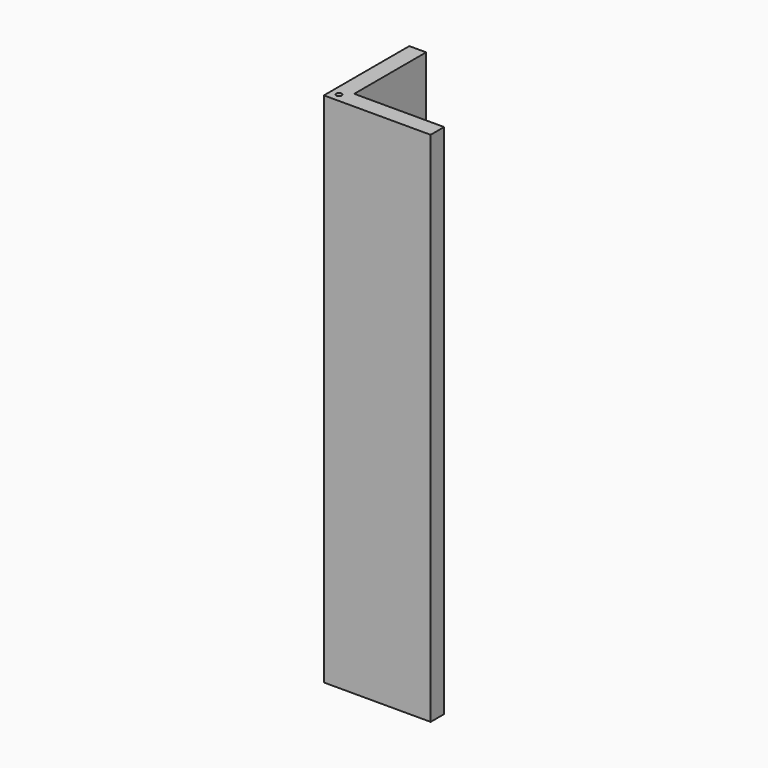
from build123d import *

# Parameters (mm, degrees)
F1_DEPTH = 292.1
F3_DEPTH = 611.632


with BuildPart() as f1:
    # F0 (on Top) → F1 (new body, symmetric)
    with BuildSketch(Plane.XY):
        Polygon((-60.325, 60.325), (-60.325, -60.325), (60.325, -60.325), (60.325, -41.275), (-41.275, -41.275), (-41.275, 60.325), align=None)
    extrude(amount=F1_DEPTH, both=True)

    # F2 (on face) → F3 (cut)
    with BuildSketch(Plane.XY.offset(292.1)):
        with BuildLine():
            ThreePointArc((-47.767103, -50.8), (-47.997968, -49.63936), (-48.655418, -48.655418))
            Line((-48.655418, -48.655418), (-52.944582, -52.944582))
            ThreePointArc((-52.944582, -52.944582), (-49.63936, -53.602032), (-47.767103, -50.8))
        make_face()
        with BuildLine():
            Line((-52.944582, -52.944582), (-48.655418, -48.655418))
            ThreePointArc((-48.655418, -48.655418), (-52.944582, -48.655418), (-52.944582, -52.944582))
        make_face()
    extrude(amount=-F3_DEPTH, mode=Mode.SUBTRACT)


solid = f1.part
